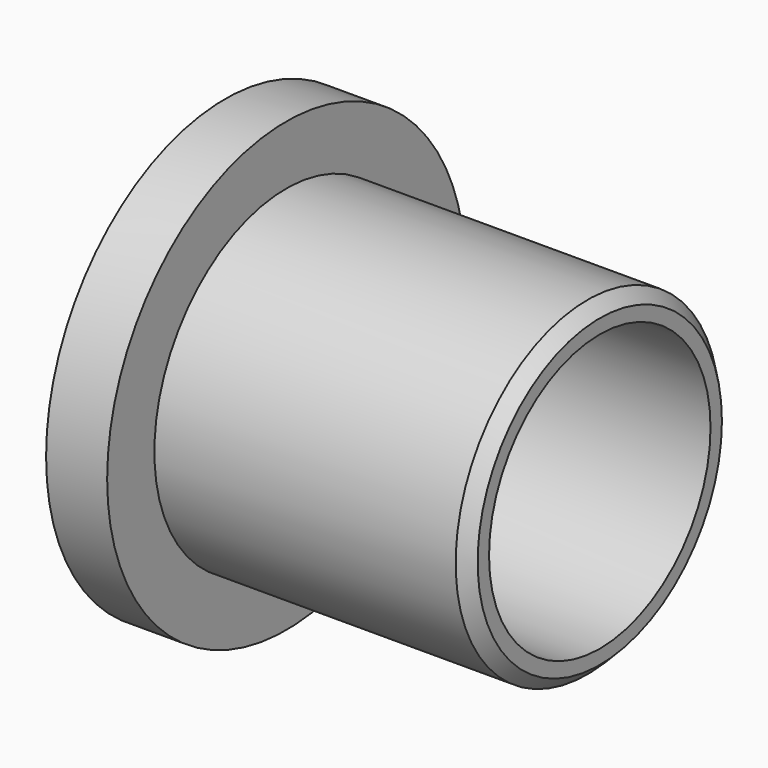
from build123d import *

# Parameters (mm, degrees)
F0_R     = 4.05
F0_R_2   = 3.4
F0_R_3   = 5.5
F1_DEPTH = 1.5
F2_DEPTH = 9.2
F3_DEPTH = 9.201
F4_SIZE  = 0.3


with BuildPart() as f1:
    # F0 (on Right) → F1 (new body)
    with BuildSketch(Plane.YZ):
        Circle(F0_R)
        Circle(F0_R_2, mode=Mode.SUBTRACT)
        Circle(F0_R_2)
        Circle(F0_R_3)
        Circle(F0_R, mode=Mode.SUBTRACT)
    extrude(amount=F1_DEPTH)

    # F0 (on Right) → F2 (join)
    with BuildSketch(Plane.YZ):
        Circle(F0_R)
        Circle(F0_R_2, mode=Mode.SUBTRACT)
    extrude(amount=F2_DEPTH)

    # F0 (on Right) → F3 (cut, through all)
    with BuildSketch(Plane.YZ):
        Circle(F0_R_2)
    extrude(amount=F3_DEPTH, mode=Mode.SUBTRACT)

    # F4
    f4_edges = [f1.edges().sort_by_distance(p)[0] for p in [
        (0, -3.4, 0),
        (9.2, -4.05, 0),
    ]]
    chamfer(f4_edges, length=F4_SIZE)


solid = f1.part
